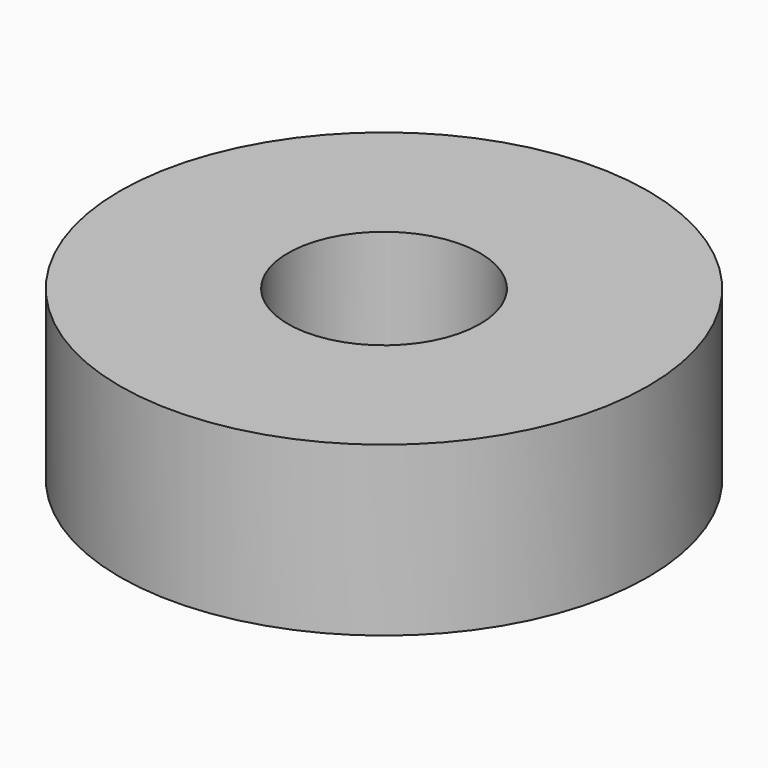
from build123d import *

# Parameters (mm, degrees)
CYLINDER003_R     = 4
CYLINDER003_DEPTH = 7
CYLINDER002_R     = 11
CYLINDER002_DEPTH = 7


with BuildPart() as cylinder003:
    # Cylinder003 → Cylinder003 (new body)
    with BuildSketch(Plane.XY):
        Circle(CYLINDER003_R)
    extrude(amount=CYLINDER003_DEPTH)


with BuildPart() as cut001:
    # Cylinder002 → Cylinder002 (new body)
    with BuildSketch(Plane.XY):
        Circle(CYLINDER002_R)
    extrude(amount=CYLINDER002_DEPTH)

    # Cut001: cut Cylinder003
    add(cylinder003.part, mode=Mode.SUBTRACT)


with BuildPart() as cut001_1:
    # Cut001 placement: moved
    add(cut001.part.moved(Location((0, 0, -12))))


solid = cut001_1.part
